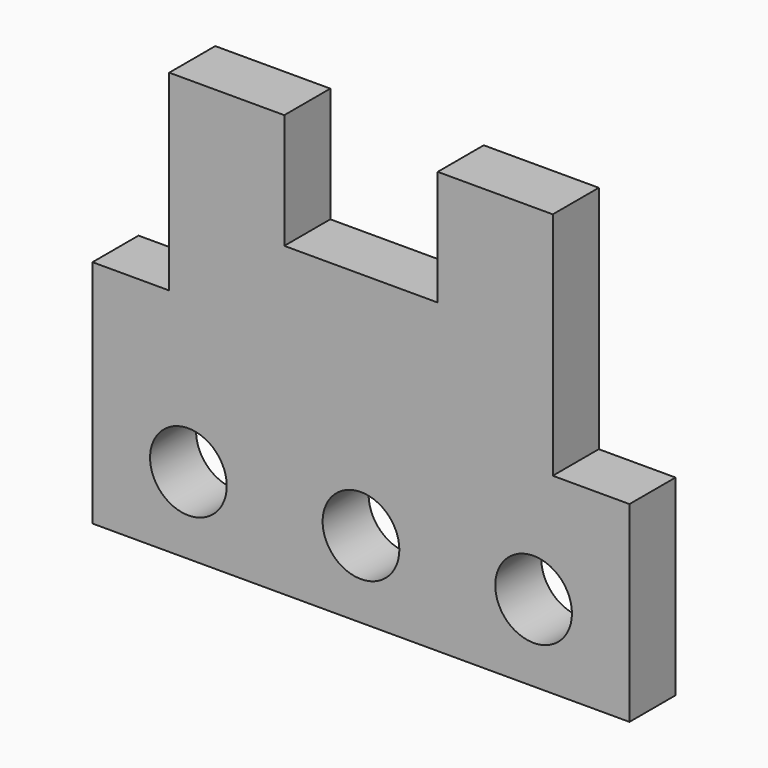
from build123d import *

# Parameters (mm, degrees)
F0_R     = 10
F1_DEPTH = 15


with BuildPart() as f1:
    # F0 (on Front) → F1 (new body)
    with BuildSketch(Plane.XZ):
        Polygon((-140, 60), (-140, 0), (0, 0), (0, 50), (-20, 50), (-20, 110), (-50, 110), (-50, 80), (-90, 80), (-90, 110), (-120, 110), (-120, 60), align=None)
        with Locations((-115, 20)):
            Circle(F0_R, mode=Mode.SUBTRACT)
        with Locations((-70, 20)):
            Circle(F0_R, mode=Mode.SUBTRACT)
        with Locations((-25, 20)):
            Circle(F0_R, mode=Mode.SUBTRACT)
    extrude(amount=F1_DEPTH)


solid = f1.part
